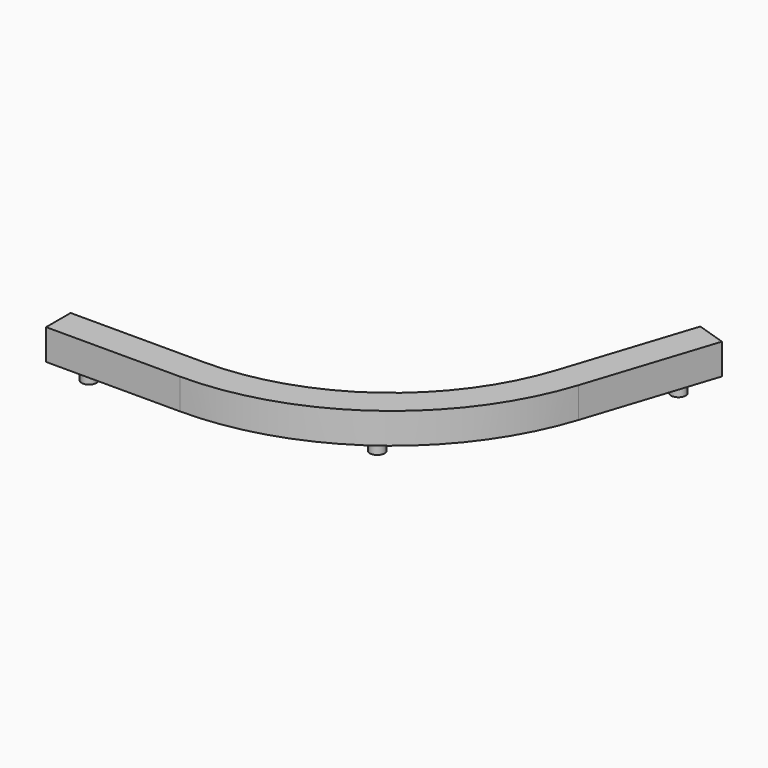
from build123d import *

# Parameters (mm, degrees)
PAD007_DEPTH = 12.8
SKETCH026_R  = 3.05
PAD008_DEPTH = 5.2
SKETCH027_R  = 3.05
PAD009_DEPTH = 5.2
SKETCH028_R  = 3.05
PAD010_DEPTH = 5.2


with BuildPart() as part:
    # Sketch025 → Pad007 (new body)
    with BuildSketch(Plane.XY):
        with BuildLine():
            Line((64.9839392466, -187.2), (9, -187.2))
            Line((9, -187.2), (9, -200))
            Line((9, -200), (64.9839392466, -200))
            ThreePointArc((64.9839392466, -200), (129.9678784932, -178.8854382), (170.1301616704, -123.60679775))
            Line((187.4301503097, -70.3629075216), (170.1301616704, -123.60679775))
            Line((187.4301503097, -70.3629075216), (175.2566269011, -66.4074899936))
            Line((157.9566382618, -119.651380222), (175.2566269011, -66.4074899936))
            ThreePointArc((64.9839392466, -187.2), (122.4442272638, -168.530020672), (157.9566382618, -119.651380222))
        make_face()
    extrude(amount=PAD007_DEPTH)

    # Sketch026 (on Face9 of Pad007) → Pad008 (join)
    with BuildSketch(Plane(origin=(0, 0, 0), x_dir=(1, 0, 0), z_dir=(0, 0, -1))):
        with Locations((21.8, 193.6)):
            Circle(SKETCH026_R)
    extrude(amount=PAD008_DEPTH)

    # Sketch027 (on Face4 of Pad008) → Pad009 (join)
    with BuildSketch(Plane(origin=(0, 0, 0), x_dir=(1, 0, 0), z_dir=(0, 0, -1))):
        with Locations((126.2060528785, 173.707729436)):
            Circle(SKETCH027_R)
    extrude(amount=PAD009_DEPTH)

    # Sketch028 (on Face4 of Pad009) → Pad010 (join)
    with BuildSketch(Plane(origin=(0, 0, 0), x_dir=(1, 0, 0), z_dir=(0, 0, -1))):
        with Locations((177.3879710774, 80.5587221662)):
            Circle(SKETCH028_R)
    extrude(amount=PAD010_DEPTH)


solid = part.part
